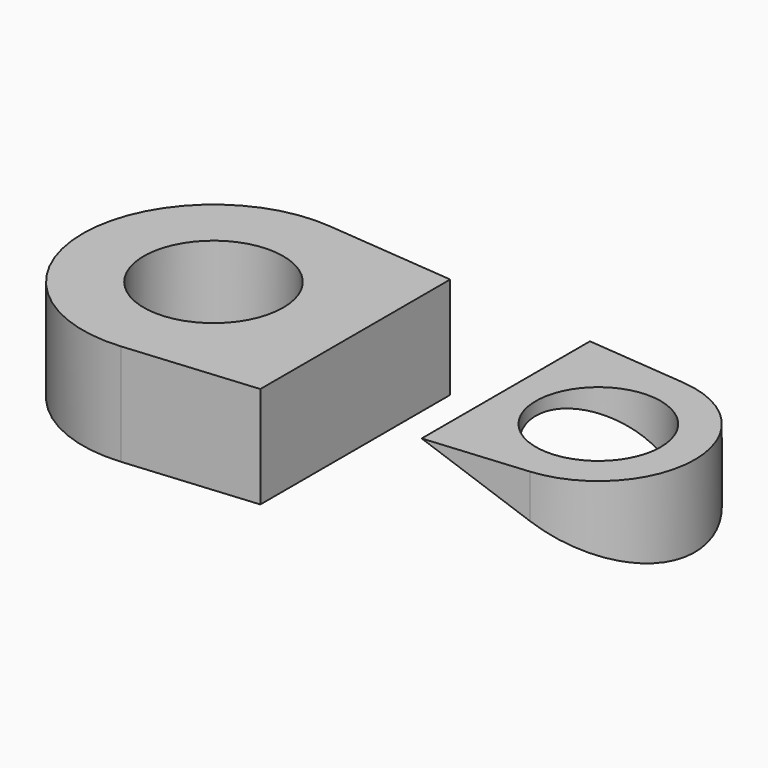
from build123d import *

# Parameters (mm, degrees)
F0_R     = 13.72451
F0_R_2   = 12.27983
F1_DEPTH = 20
F3_DEPTH = 25.211249


with BuildPart() as f1:
    # F0 (on Top) → F1 (new body)
    with BuildSketch(Plane.XY):
        with BuildLine():
            Line((-46.567311, -25.643485), (28.559376, -18.922193))
            ThreePointArc((28.559376, -18.922193), (45.864251, 0), (28.559376, 18.922193))
            Line((28.559376, 18.922193), (-46.567311, 25.643485))
            ThreePointArc((-46.567311, 25.643485), (-74.607441, 0), (-46.567311, -25.643485))
        make_face()
        with Locations((-48.861533, 0)):
            Circle(F0_R, mode=Mode.SUBTRACT)
        with Locations((26.866481, 0)):
            Circle(F0_R_2, mode=Mode.SUBTRACT)
    extrude(amount=F1_DEPTH)

    # F2 (on Front) → F3 (cut, symmetric)
    with BuildSketch(Plane.XZ):
        Polygon((-20.961732, 32.771178), (-20.961732, 0), (55.061519, 0), align=None)
    extrude(amount=F3_DEPTH, both=True, mode=Mode.SUBTRACT)


solid = f1.part
